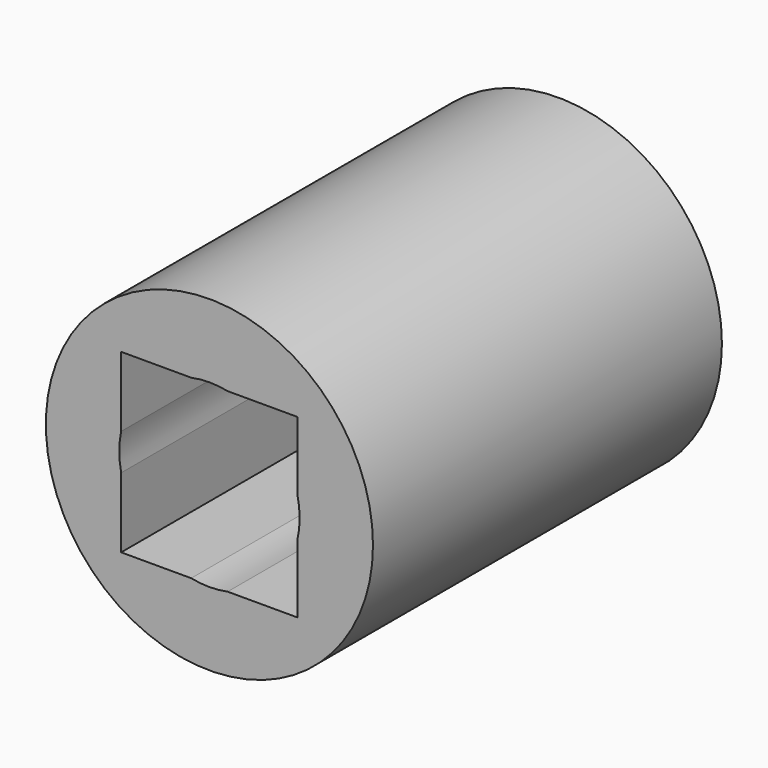
from build123d import *

# Parameters (mm, degrees)
F0_R          = 9.525
F1_DEPTH      = 25.4
F3_DEPTH      = 25.4
F3_DEPTH_BACK = 25.4


with BuildPart() as f1:
    # F0 (on Front) → F1 (new body)
    with BuildSketch(Plane.XZ):
        Circle(F0_R)
    extrude(amount=F1_DEPTH)

    # F2 (on Front) → F3 (cut, two sides)
    with BuildSketch(Plane.XZ) as f3_sk:
        with BuildLine():
            Line((-1.0614236669, 5.1403073594), (-5.1403073594, 5.1403073594))
            Line((-5.1403073594, 5.1403073594), (-5.1403073594, 1.0614236669))
            ThreePointArc((-5.1403073594, 1.0614236669), (-3.7114269459, 3.7114269459), (-1.0614236669, 5.1403073594))
        make_face()
        with BuildLine():
            ThreePointArc((1.0614236669, 5.1403073594), (0, 5.2487503227), (-1.0614236669, 5.1403073594))
            Line((-1.0614236669, 5.1403073594), (1.0614236669, 5.1403073594))
        make_face()
        with BuildLine():
            Line((1.0614236669, 5.1403073594), (-1.0614236669, 5.1403073594))
            ThreePointArc((-1.0614236669, 5.1403073594), (-3.7114269459, 3.7114269459), (-5.1403073594, 1.0614236669))
            Line((-5.1403073594, 1.0614236669), (-5.1403073594, -1.0614236669))
            ThreePointArc((-5.1403073594, -1.0614236669), (-3.7114269459, -3.7114269459), (-1.0614236669, -5.1403073594))
            Line((-1.0614236669, -5.1403073594), (1.0614236669, -5.1403073594))
            ThreePointArc((1.0614236669, -5.1403073594), (3.7114269459, -3.7114269459), (5.1403073594, -1.0614236669))
            Line((5.1403073594, -1.0614236669), (5.1403073594, 1.0614236669))
            ThreePointArc((5.1403073594, 1.0614236669), (3.7114269459, 3.7114269459), (1.0614236669, 5.1403073594))
        make_face()
        with BuildLine():
            Line((-5.1403073594, -1.0614236669), (-5.1403073594, 1.0614236669))
            ThreePointArc((-5.1403073594, 1.0614236669), (-5.2487503227, 0), (-5.1403073594, -1.0614236669))
        make_face()
        with BuildLine():
            Line((5.1403073594, 5.1403073594), (1.0614236669, 5.1403073594))
            ThreePointArc((1.0614236669, 5.1403073594), (3.7114269459, 3.7114269459), (5.1403073594, 1.0614236669))
            Line((5.1403073594, 1.0614236669), (5.1403073594, 5.1403073594))
        make_face()
        with BuildLine():
            ThreePointArc((-1.0614236669, -5.1403073594), (-3.7114269459, -3.7114269459), (-5.1403073594, -1.0614236669))
            Line((-5.1403073594, -1.0614236669), (-5.1403073594, -5.1403073594))
            Line((-5.1403073594, -5.1403073594), (-1.0614236669, -5.1403073594))
        make_face()
        with BuildLine():
            ThreePointArc((5.2487503227, 0), (5.2215692019, 0.5334744785), (5.1403073594, 1.0614236669))
            Line((5.1403073594, 1.0614236669), (5.1403073594, -1.0614236669))
            ThreePointArc((5.1403073594, -1.0614236669), (5.2215692019, -0.5334744785), (5.2487503227, 0))
        make_face()
        with BuildLine():
            Line((1.0614236669, -5.1403073594), (-1.0614236669, -5.1403073594))
            ThreePointArc((-1.0614236669, -5.1403073594), (0, -5.2487503227), (1.0614236669, -5.1403073594))
        make_face()
        with BuildLine():
            Line((5.1403073594, -5.1403073594), (5.1403073594, -1.0614236669))
            ThreePointArc((5.1403073594, -1.0614236669), (3.7114269459, -3.7114269459), (1.0614236669, -5.1403073594))
            Line((1.0614236669, -5.1403073594), (5.1403073594, -5.1403073594))
        make_face()
    extrude(amount=-F3_DEPTH, mode=Mode.SUBTRACT)
    extrude(f3_sk.sketch, amount=F3_DEPTH_BACK, mode=Mode.SUBTRACT)


solid = f1.part
